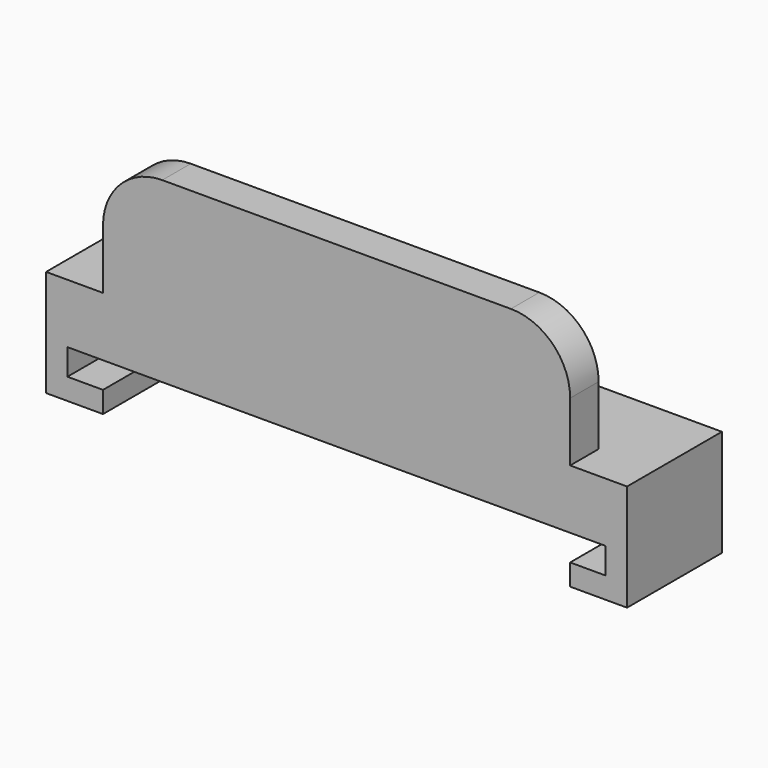
from build123d import *

# Parameters (mm, degrees)
F0_W     = 1.8
F0_H     = 10
F0_W_2   = 39.4
F0_H_2   = 7
F0_H_3   = 3
F1_DEPTH = 5
F2_DEPTH = 2
F3_START = -2.2
F3_DEPTH = 1.8
F4_START = -2
F4_DEPTH = 2
F5_DEPTH = 15
F6_R     = 5


with BuildPart() as f1:
    # F0 (on Top) → F1 (new body)
    with BuildSketch(Plane.XY):
        with Locations((-23.6, 0)):
            Rectangle(F0_W, F0_H)
        Polygon((-19.7, -2), (-19.7, 5), (-22.7, 5), (-22.7, -5), (-19.7, -5), align=None)
        with Locations((0, 1.5)):
            Rectangle(F0_W_2, F0_H_2)
        Polygon((22.7, -5), (22.7, 5), (19.7, 5), (19.7, -2), (19.7, -5), align=None)
        with Locations((23.6, 0)):
            Rectangle(F0_W, F0_H)
        with Locations((23.6, 0)):
            Rectangle(F0_W, F0_H)
        Polygon((22.7, -5), (22.7, 5), (19.7, 5), (19.7, -2), (19.7, -5), align=None)
        with Locations((0, -3.5)):
            Rectangle(F0_W_2, F0_H_3)
        Polygon((-19.7, -2), (-19.7, 5), (-22.7, 5), (-22.7, -5), (-19.7, -5), align=None)
        with Locations((-23.6, 0)):
            Rectangle(F0_W, F0_H)
    extrude(amount=F1_DEPTH)

    # F0 (on Top) → F2 (join)
    with BuildSketch(Plane.XY):
        with Locations((-23.6, 0)):
            Rectangle(F0_W, F0_H)
        with Locations((-23.6, 0)):
            Rectangle(F0_W, F0_H)
        with Locations((23.6, 0)):
            Rectangle(F0_W, F0_H)
        with Locations((23.6, 0)):
            Rectangle(F0_W, F0_H)
    extrude(amount=-F2_DEPTH)



with BuildPart() as f3:
    # F0 (on Top) → F3 (new body)
    with BuildSketch(Plane.XY.offset(F3_START)):
        Polygon((-19.7, -2), (-19.7, 5), (-22.7, 5), (-22.7, -5), (-19.7, -5), align=None)
        Polygon((-19.7, -2), (-19.7, 5), (-22.7, 5), (-22.7, -5), (-19.7, -5), align=None)
    extrude(amount=-F3_DEPTH)


with BuildPart() as f3b:
    # F0 (on Top) → F3, piece 2 (new body)
    with BuildSketch(Plane.XY.offset(F3_START)):
        Polygon((22.7, -5), (22.7, 5), (19.7, 5), (19.7, -2), (19.7, -5), align=None)
        Polygon((22.7, -5), (22.7, 5), (19.7, 5), (19.7, -2), (19.7, -5), align=None)
    extrude(amount=-F3_DEPTH)


with BuildPart() as f1_1:
    add(f1.part)

    add(f3.part)  # F4 merges F3

    add(f3b.part)  # F4 merges F3b
    # F0 (on Top) → F4 (join)
    with BuildSketch(Plane.XY.offset(F4_START)):
        with Locations((-23.6, 0)):
            Rectangle(F0_W, F0_H)
        with Locations((-23.6, 0)):
            Rectangle(F0_W, F0_H)
        with Locations((23.6, 0)):
            Rectangle(F0_W, F0_H)
        with Locations((23.6, 0)):
            Rectangle(F0_W, F0_H)
    extrude(amount=-F4_DEPTH)

    # F0 (on Top) → F5 (join)
    with BuildSketch(Plane.XY):
        with Locations((0, -3.5)):
            Rectangle(F0_W_2, F0_H_3)
    extrude(amount=F5_DEPTH)

    # F6
    f6_edges = [f1_1.edges().sort_by_distance(p)[0] for p in [
        (-19.7, -3.5, 15),
        (19.7, -3.5, 15),
    ]]
    fillet(f6_edges, radius=F6_R)


solid = f1_1.part
